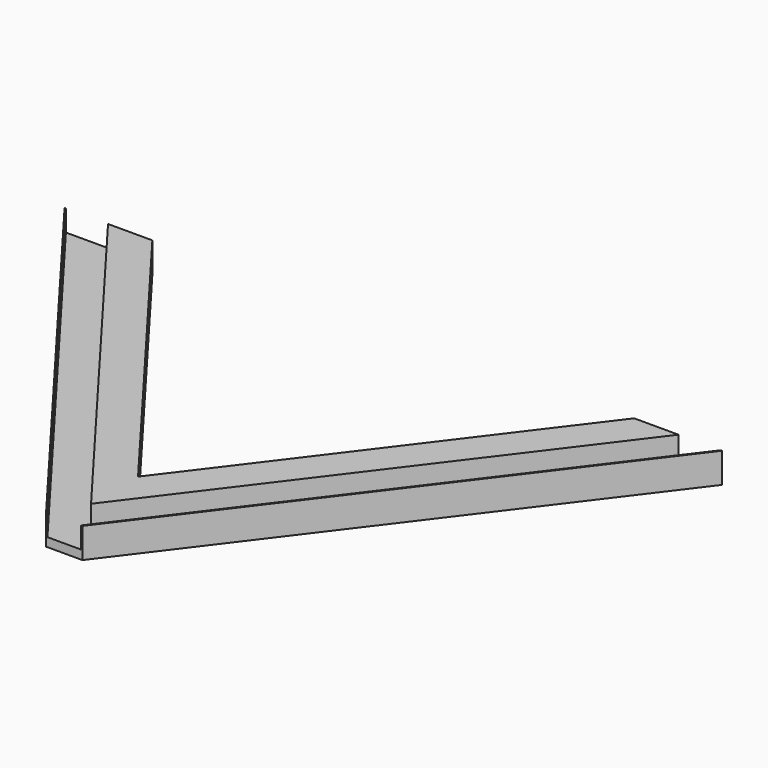
from build123d import *

# Parameters (mm, degrees)
F1_DEPTH      = 25
F3_DEPTH      = 60
F5_DEPTH      = 60
F5_DEPTH_BACK = 25
F7_DEPTH      = 85.001


with BuildPart() as f1:
    # F0 (on Top) → F1 (new body)
    with BuildSketch(Plane.XY):
        Polygon((1850, 0), (0, 0), (877.5, -1162.1623567633), (972.5, -1162.1623567633), align=None)
    extrude(amount=F1_DEPTH)

    # F2 (on face) → F3 (join)
    with BuildSketch(Plane.XY.offset(25)):
        Polygon((119.0389274289, 0), (925, -1067.4160906651), (1730.9610725711, 0), align=None)
    extrude(amount=F3_DEPTH)

    # F4 (on face) → F5 (join, two sides)
    with BuildSketch(Plane.XY.offset(25)) as f5_sk:
        Polygon((-3.7591240241, 0), (873.7408759759, -1162.1623567633), (877.5, -1162.1623567633), (0, 0), align=None)
        Polygon((1850, 0), (972.5, -1162.1623567633), (976.2591240241, -1162.1623567633), (1853.7591240241, 0), align=None)
    extrude(amount=F5_DEPTH)
    extrude(f5_sk.sketch, amount=-F5_DEPTH_BACK)

    # F6 (on face) → F7 (cut, through all)
    with BuildSketch(Plane.XY.offset(85)):
        Polygon((244.3430615646, 0), (925, -901.4631016744), (1605.6569384354, 0), align=None)
    extrude(amount=-F7_DEPTH, mode=Mode.SUBTRACT)


solid = f1.part
